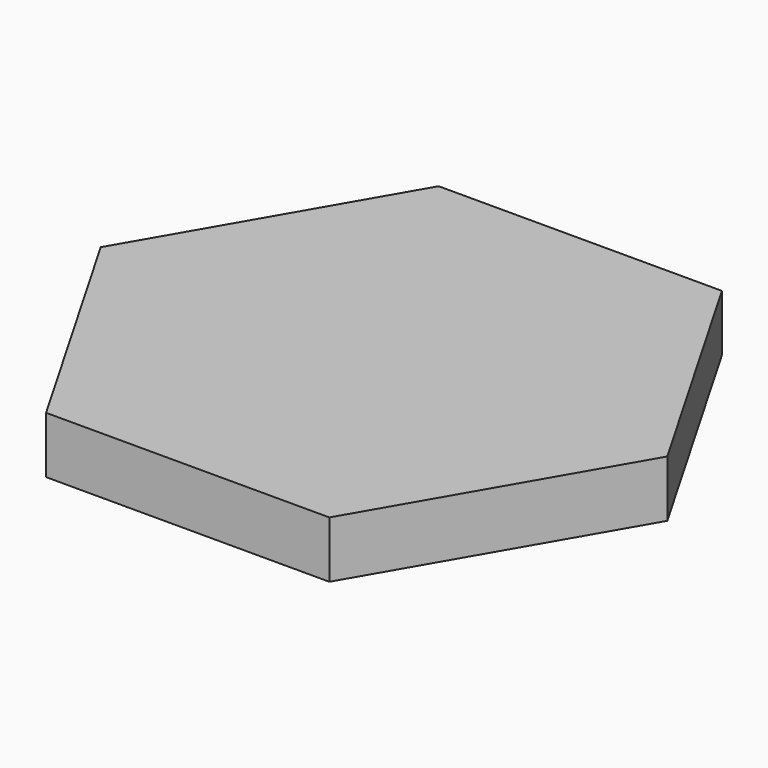
from build123d import *

# Parameters (mm, degrees)
PAD_DEPTH = 15


with BuildPart() as part:
    # Sketch → Pad (new body)
    with BuildSketch(Plane.XY):
        Polygon((-37.5, 64.951905), (-75, 0), (-37.5, -64.951905), (37.5, -64.951905), (75, 0), (37.5, 64.951905), align=None)
    extrude(amount=PAD_DEPTH)


solid = part.part
